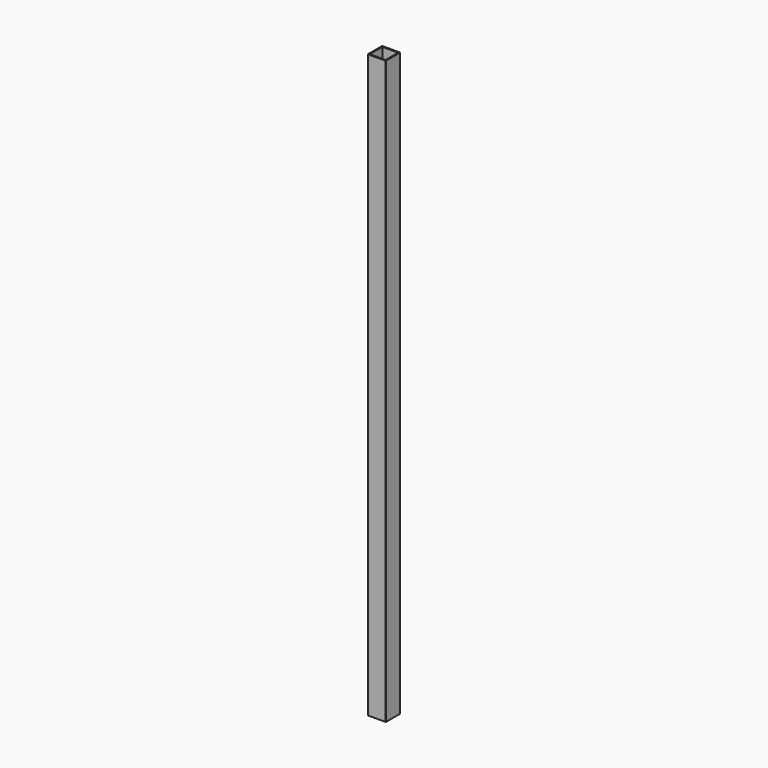
from build123d import *

# Parameters (mm, degrees)
SKETCH_W   = 25
SKETCH_H   = 25
SKETCH_W_2 = 22
SKETCH_H_2 = 22
PAD_DEPTH  = 813
FILLET_R   = 0.74


with BuildPart() as part:
    # Sketch → Pad (new body)
    with BuildSketch(Plane.XY):
        with Locations((12.5, 12.5)):
            Rectangle(SKETCH_W, SKETCH_H)
        with Locations((12.5, 12.5)):
            Rectangle(SKETCH_W_2, SKETCH_H_2, mode=Mode.SUBTRACT)
    extrude(amount=PAD_DEPTH)

    # Fillet
    fillet_edges = [part.edges().sort_by_distance(p)[0] for p in [
        (25, 0, 406.5),
        (0, 0, 406.5),
        (25, 25, 406.5),
        (0, 25, 406.5),
    ]]
    fillet(fillet_edges, radius=FILLET_R)


solid = part.part
